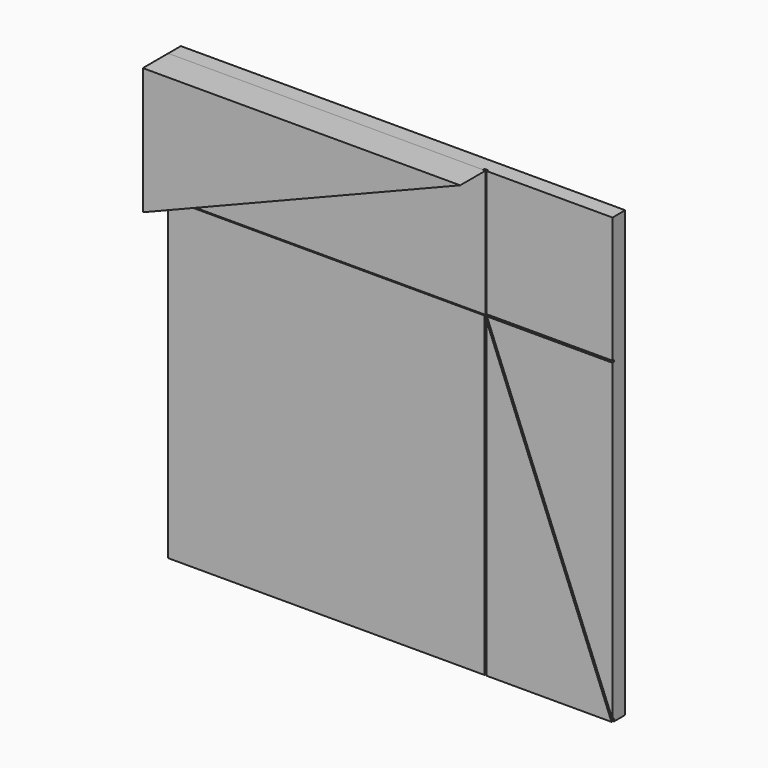
from build123d import *

# Parameters (mm, degrees)
F1_DEPTH = 6.35
F2_DEPTH = 12.7
F4_DEPTH = 0.762


with BuildPart() as f1:
    # F0 (on Front) → F1 (new body)
    with BuildSketch(Plane.XZ):
        Polygon((88.9, -88.9), (88.9, 88.9), (38.1, 88.9), (-88.9, 38.1), (-88.9, -88.9), align=None)
        Polygon((-88.9, 38.1), (38.1, 88.9), (-88.9, 88.9), align=None)
    extrude(amount=-F1_DEPTH)

    # F3 (on face) → F4 (cut)
    with BuildSketch(Plane.XZ):
        with BuildLine():
            Line((37.719, 37.719), (37.719, 38.1))
            Line((37.719, 38.1), (-87.8741261042, 38.1))
            Line((-87.8741261042, 38.1), (-88.7585001523, 37.7462503808))
            ThreePointArc((-88.7585001523, 37.7462503808), (-88.8279500344, 37.7258746167), (-88.9, 37.719))
            Line((-88.9, 37.719), (37.719, 37.719))
        make_face()
        with BuildLine():
            ThreePointArc((37.7462503808, 37.9585001523), (37.7258746167, 38.0279500344), (37.719, 38.1))
            Line((37.719, 38.1), (37.719, 37.719))
            Line((37.719, 37.719), (37.8420504417, 37.719))
            Line((37.8420504417, 37.719), (37.7462503808, 37.9585001523))
        make_face()
        with BuildLine():
            Line((-88.7585001523, 37.7462503808), (-87.8741261042, 38.1))
            Line((-87.8741261042, 38.1), (-88.9, 38.1))
            Line((-88.9, 38.1), (-87.9475, 38.481))
            Line((-87.9475, 38.481), (-88.9, 38.481))
            ThreePointArc((-88.9, 38.481), (-88.9720499656, 38.4741253833), (-89.0414998477, 38.4537496192))
            ThreePointArc((-89.0414998477, 38.4537496192), (-89.2741253833, 38.0279500344), (-88.9, 37.719))
            ThreePointArc((-88.9, 37.719), (-88.8279500344, 37.7258746167), (-88.7585001523, 37.7462503808))
        make_face()
        with BuildLine():
            Line((38.1, 88.4896504417), (38.1, 38.481))
            Line((38.1, 38.481), (38.481, 38.481))
            Line((38.481, 38.481), (38.481, 88.9))
            ThreePointArc((38.481, 88.9), (38.4154936148, 88.6864004237), (38.2414998477, 88.5462503808))
            Line((38.2414998477, 88.5462503808), (38.1, 88.4896504417))
        make_face()
        with BuildLine():
            Line((38.481, 38.481), (38.1, 38.481))
            ThreePointArc((38.1, 38.481), (38.3135995763, 38.4154936148), (38.4537496192, 38.2414998477))
            Line((38.4537496192, 38.2414998477), (38.481, 38.1733738958))
            Line((38.481, 38.1733738958), (38.481, 38.481))
        make_face()
        with BuildLine():
            Line((37.8420504417, 37.719), (37.719, 37.719))
            Line((37.719, 37.719), (37.719, -88.9))
            ThreePointArc((37.719, -88.9), (38.1, -89.281), (38.481, -88.9))
            Line((38.481, -88.9), (38.481, 36.1216261042))
            Line((38.481, 36.1216261042), (38.1, 37.0741261042))
            Line((38.1, 37.0741261042), (37.8420504417, 37.719))
        make_face()
        Polygon((38.5103495583, 38.1), (38.481, 38.1), (38.481, 37.719), (38.6627495583, 37.719), align=None)
        Polygon((38.2524, 37.719), (38.1, 37.719), (38.1, 37.0741261042), (38.481, 36.1216261042), (38.481, 37.1475), align=None)
        with BuildLine():
            Line((38.1, 88.9), (38.1, 88.4896504417))
            Line((38.1, 88.4896504417), (38.2414998477, 88.5462503808))
            ThreePointArc((38.2414998477, 88.5462503808), (38.4154936148, 88.6864004237), (38.481, 88.9))
            ThreePointArc((38.481, 88.9), (38.3135995763, 89.2154936148), (37.9585001523, 89.2537496192))
            ThreePointArc((37.9585001523, 89.2537496192), (37.7845063852, 89.1135995763), (37.719, 88.9))
            Line((37.719, 88.9), (37.719, 88.7476))
            Line((37.719, 88.7476), (38.1, 88.9))
        make_face()
        with BuildLine():
            Line((88.9, 38.481), (38.481, 38.481))
            Line((38.481, 38.481), (38.481, 38.1733738958))
            Line((38.481, 38.1733738958), (38.5103495583, 38.1))
            Line((38.5103495583, 38.1), (38.6627495583, 37.719))
            Line((38.6627495583, 37.719), (88.9, 37.719))
            ThreePointArc((88.9, 37.719), (89.281, 38.1), (88.9, 38.481))
        make_face()
        with BuildLine():
            Line((38.6627495583, 37.719), (38.481, 37.719))
            Line((38.481, 37.719), (38.481, 37.1475))
            Line((38.481, 37.1475), (38.481, 36.1216261042))
            Line((38.481, 36.1216261042), (88.5462503808, -89.0414998477))
            ThreePointArc((88.5462503808, -89.0414998477), (89.0414998477, -89.2537496192), (89.2537496192, -88.7585001523))
            Line((89.2537496192, -88.7585001523), (38.6627495583, 37.719))
        make_face()
        with BuildLine():
            Line((-88.9, 38.481), (-87.9475, 38.481))
            Line((-87.9475, 38.481), (37.719, 88.7476))
            Line((37.719, 88.7476), (37.719, 88.9))
            ThreePointArc((37.719, 88.9), (37.7845063852, 89.1135995763), (37.9585001523, 89.2537496192))
            Line((37.9585001523, 89.2537496192), (-89.0414998477, 38.4537496192))
            ThreePointArc((-89.0414998477, 38.4537496192), (-88.9720499656, 38.4741253833), (-88.9, 38.481))
        make_face()
    extrude(amount=-F4_DEPTH, mode=Mode.SUBTRACT)


with BuildPart() as f2:
    # F0 (on Front) → F2 (new body)
    with BuildSketch(Plane.XZ):
        Polygon((-88.9, 38.1), (38.1, 88.9), (-88.9, 88.9), align=None)
    extrude(amount=F2_DEPTH)


solid = Compound([f1.part, f2.part])
